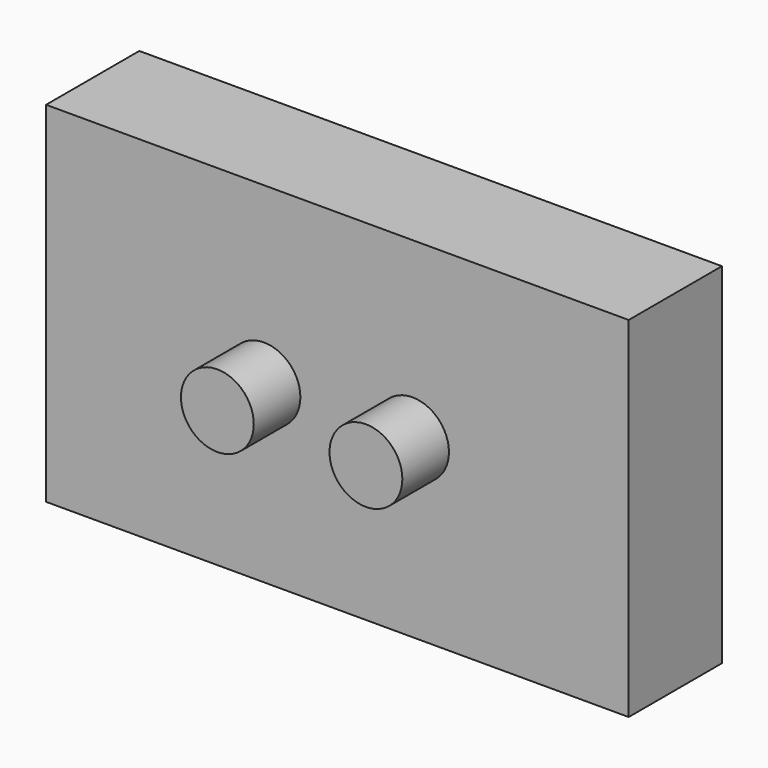
from build123d import *

# Parameters (mm, degrees)
F0_W     = 127
F0_H     = 76.2
F1_DEPTH = 25.4
F2_R     = 7.9375
F3_DEPTH = 12.7


with BuildPart() as f1:
    # F0 (on Front) → F1 (new body)
    with BuildSketch(Plane.XZ):
        Rectangle(F0_W, F0_H)
    extrude(amount=-F1_DEPTH)

    # F2 (on Front) → F3 (join)
    with BuildSketch(Plane.XZ):
        with Locations((-16.006199, 0)):
            Circle(F2_R)
        with Locations((16.378801, 0)):
            Circle(F2_R)
    extrude(amount=F3_DEPTH)


solid = f1.part
